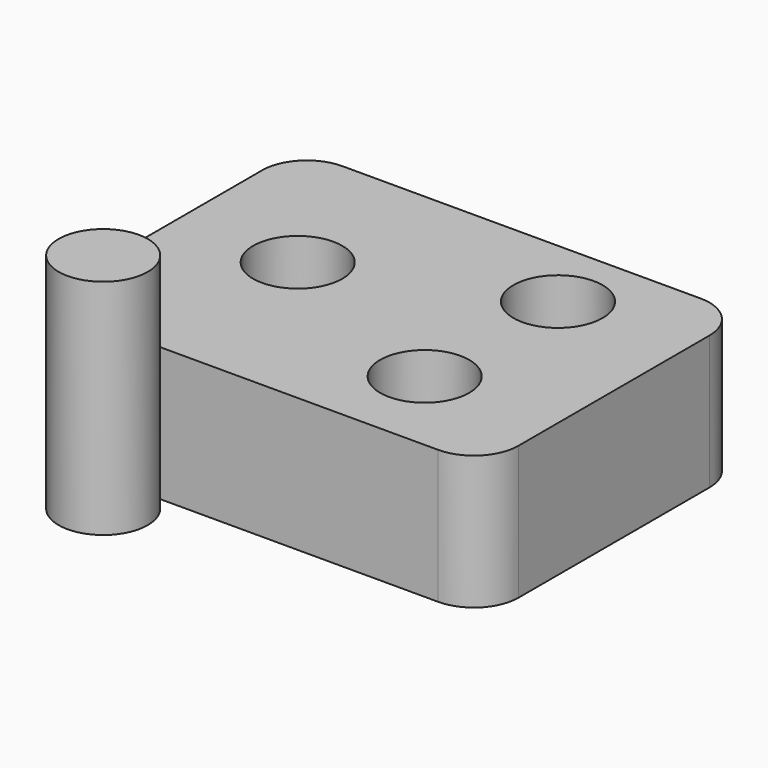
from build123d import *

# Parameters (mm, degrees)
F0_W     = 50.148401
F0_H     = 36.765244
F1_DEPTH = 15
F2_R     = 5
F3_DEPTH = 25
F4_R     = 5
F5_R     = 5
F6_DEPTH = 25


with BuildPart() as f1:
    # F0 (on Top) → F1 (new body)
    with BuildSketch(Plane.XY):
        with Locations((-25.0742, 18.382622)):
            Rectangle(F0_W, F0_H)
    extrude(amount=-F1_DEPTH)

    # F2 (on face) → F3 (cut)
    with BuildSketch(Plane.XY):
        with Locations((-14.375314, 28.505028)):
            Circle(F2_R)
        with Locations((-14.630386, 10.13984)):
            Circle(F2_R)
        with Locations((-36.821657, 20.08765)):
            Circle(F2_R)
    extrude(amount=-F3_DEPTH, mode=Mode.SUBTRACT)

    # F4
    f4_edges = [f1.edges().sort_by_distance(p)[0] for p in [
        (-50.148401, 0, -7.5),
        (0, 0, -7.5),
        (0, 36.765244, -7.5),
        (-50.148401, 36.765244, -7.5),
    ]]
    fillet(f4_edges, radius=F4_R)


with BuildPart() as f6:
    # F5 (on Top) → F6 (new body)
    with BuildSketch(Plane.XY):
        with Locations((-20.935191, -27.031036)):
            Circle(F5_R)
    extrude(amount=F6_DEPTH)


solid = Compound([f1.part, f6.part])
